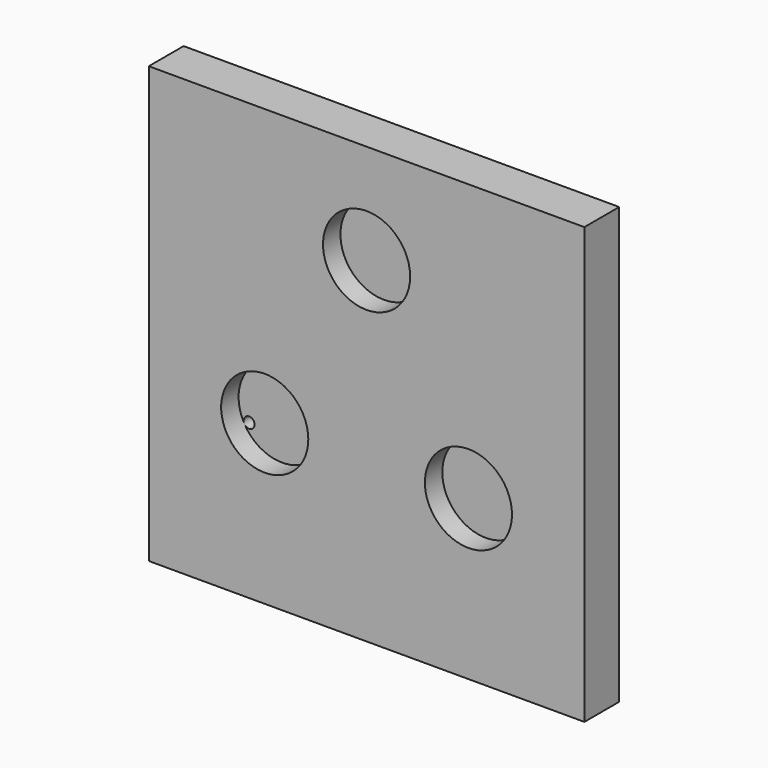
from build123d import *

# Parameters (mm, degrees)
F0_W     = 127
F0_H     = 127
F1_DEPTH = 12.7
F2_R     = 12.7
F3_DEPTH = 6.35
F4_R     = 1.5875
F5_DEPTH = 6.351


with BuildPart() as f1:
    # F0 (on Front) → F1 (new body)
    with BuildSketch(Plane.XZ):
        Rectangle(F0_W, F0_H)
    extrude(amount=F1_DEPTH)

    # F2 (on face) → F3 (cut)
    with BuildSketch(Plane.XZ.offset(12.7)):
        with Locations((0, 34.29)):
            Circle(F2_R)
        with Locations((-29.696011, -17.145)):
            Circle(F2_R)
        with Locations((29.696011, -17.145)):
            Circle(F2_R)
    extrude(amount=-F3_DEPTH, mode=Mode.SUBTRACT)

    # F4 (on face) → F5 (cut, through all)
    with BuildSketch(Plane.XZ.offset(6.35)):
        with Locations((0, 45.4025)):
            Circle(F4_R)
        with Locations((-39.319718, -22.70125)):
            Circle(F4_R)
        with Locations((39.319718, -22.70125)):
            Circle(F4_R)
    extrude(amount=-F5_DEPTH, mode=Mode.SUBTRACT)


solid = f1.part
